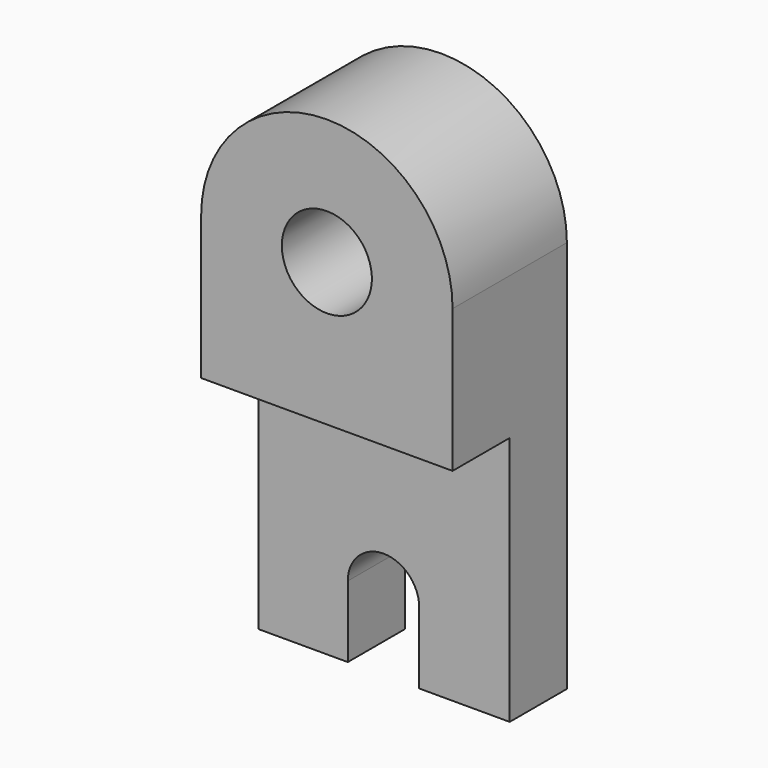
from build123d import *

# Parameters (mm, degrees)
F1_DEPTH = 25.4
F2_W     = 44.704
F2_H     = 44.45
F3_DEPTH = 12.7
F5_D     = 16.002
F7_DEPTH = 25.4


with BuildPart() as f1:
    # F0 (on Front) → F1 (new body)
    with BuildSketch(Plane.XZ):
        with BuildLine():
            Line((-44.704, 38.4340830207), (-44.704, -31.4159169793))
            Line((-44.704, -31.4159169793), (0, -31.4159169793))
            Line((0, -31.4159169793), (0, 38.4340830207))
            ThreePointArc((0, 38.4340830207), (-22.352, 60.7860830207), (-44.704, 38.4340830207))
        make_face()
    extrude(amount=F1_DEPTH)

    # F2 (on face) → F3 (cut)
    with BuildSketch(Plane.XZ.offset(25.4)):
        with Locations((-22.352, -9.1909169793)):
            Rectangle(F2_W, F2_H)
    extrude(amount=-F3_DEPTH, mode=Mode.SUBTRACT)

    # F5 (through all)
    with Locations(Plane.XZ.offset(25.4)):
        with Locations((-22.352, 38.4340830207)):
            Hole(F5_D / 2)

    # F6 (on face) → F7 (cut)
    with BuildSketch(Plane.XZ.offset(12.7)):
        with BuildLine():
            Line((-28.7899417639, -18.7159169793), (-28.7899417639, -31.4159169793))
            Line((-28.7899417639, -31.4159169793), (-16.0899417639, -31.4159169793))
            Line((-16.0899417639, -31.4159169793), (-16.0899417639, -18.7159169793))
            ThreePointArc((-16.0899417639, -18.7159169793), (-22.4399417639, -12.3659169793), (-28.7899417639, -18.7159169793))
        make_face()
    extrude(amount=-F7_DEPTH, mode=Mode.SUBTRACT)


solid = f1.part
